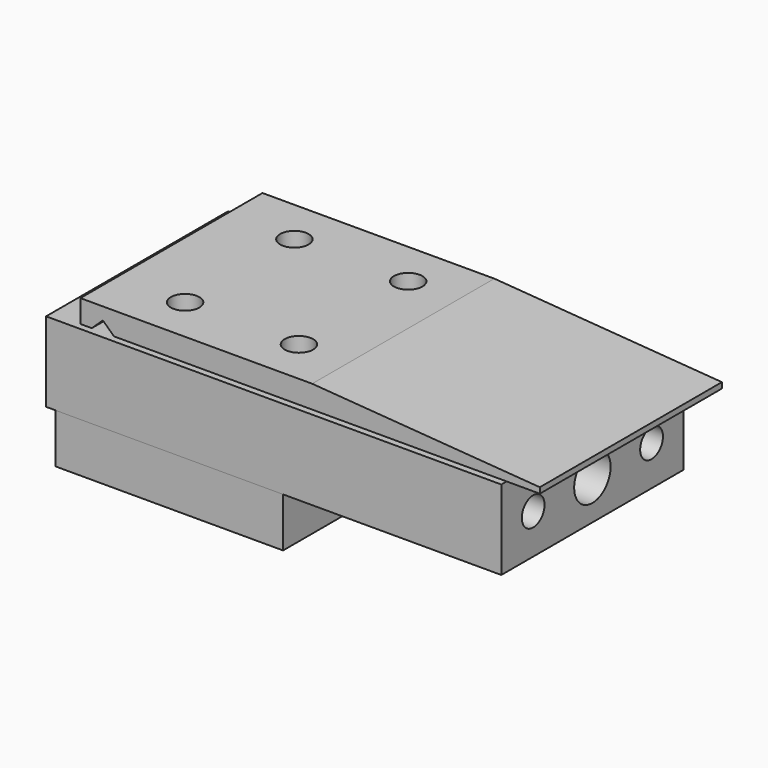
from build123d import *

# Parameters (mm, degrees)
F1_DEPTH  = 20
F3_D      = 5
F4_W      = 40
F4_H      = 14
F5_DEPTH  = 20
F7_D      = 5
F9_D      = 8
F10_W     = 80
F10_H     = 14
F11_DEPTH = 20
F13_D     = 5
F15_D     = 8
F17_D     = 5
F17_DEPTH = 5
F17_TIP   = 1.5021515476
F19_D     = 5
F19_DEPTH = 5
F19_TIP   = 1.5021515476


with BuildPart() as f1:
    # F0 (on Front) → F1 (new body, symmetric)
    with BuildSketch(Plane.XZ):
        Polygon((4.2404492051, 13.3139517168), (-36.4936559652, 13.3139517168), (-36.4936559652, 9.3139517168), (-34.4936559652, 9.3139517168), (-32.5477160513, 11.1502381042), (-30.5823739618, 9.3139517168), (4.2404492051, 9.3139517168), align=None)
        Polygon((44.2404492051, 10.3139517168), (4.2404492051, 13.3139517168), (4.2404492051, 9.3139517168), (44.2404492051, 9.3139517168), align=None)
    extrude(amount=F1_DEPTH, both=True)

    # F3 (through all)
    with Locations(Plane.XY.offset(13.3139517168)):
        with Locations((-24.4936559652, 12), (-4.4936559652, 12), (-24.4936559652, -12), (-4.4936559652, -12)):
            Hole(F3_D / 2)


with BuildPart() as f5:
    # F4 (on Front) → F5 (new body, symmetric)
    with BuildSketch(Plane.XZ):
        with Locations((-20.8811860066, -7.1455224962)):
            Rectangle(F4_W, F4_H)
    extrude(amount=F5_DEPTH, both=True)

    # F7 (through all)
    with Locations(Plane.XY.offset(-0.1455224962)):
        with Locations((-30.8811860066, 13), (-30.8811860066, -13)):
            Hole(F7_D / 2)

    # F9 (through all)
    with Locations(Plane.YZ.offset(-0.8811860066)):
        with Locations((0, -7.1455224962)):
            Hole(F9_D / 2)

    # F17
    with Locations(Plane.YZ.offset(-0.8811860066)):
        with Locations((-13, -7.1455224962), (13, -7.1455224962)):
            Hole(F17_D / 2, depth=F17_DEPTH)
            with Locations((0, 0, -(F17_DEPTH + F17_TIP / 2))):  # 118° drill point
                Cone(0, F17_D / 2, F17_TIP, mode=Mode.SUBTRACT)


with BuildPart() as f11:
    # F10 (on Front) → F11 (new body, symmetric)
    with BuildSketch(Plane.XZ):
        with Locations((-2.5250008702, 1.5338233374)):
            Rectangle(F10_W, F10_H)
    extrude(amount=F11_DEPTH, both=True)

    # F13 (through all)
    with Locations(Plane.XY.offset(8.5338233374)):
        with Locations((-32.5250008702, 12), (-32.5250008702, -12), (7.4749991298, -12), (7.4749991298, 12)):
            Hole(F13_D / 2)

    # F15 (through all)
    with Locations(Plane.YZ.offset(37.4749991298)):
        with Locations((0, 1.5338233374)):
            Hole(F15_D / 2)

    # F19
    with Locations(Plane.YZ.offset(37.4749991298)):
        with Locations((-13, 1.5338233374), (13, 1.5338233374)):
            Hole(F19_D / 2, depth=F19_DEPTH)
            with Locations((0, 0, -(F19_DEPTH + F19_TIP / 2))):  # 118° drill point
                Cone(0, F19_D / 2, F19_TIP, mode=Mode.SUBTRACT)


solid = Compound([f1.part, f5.part, f11.part])
